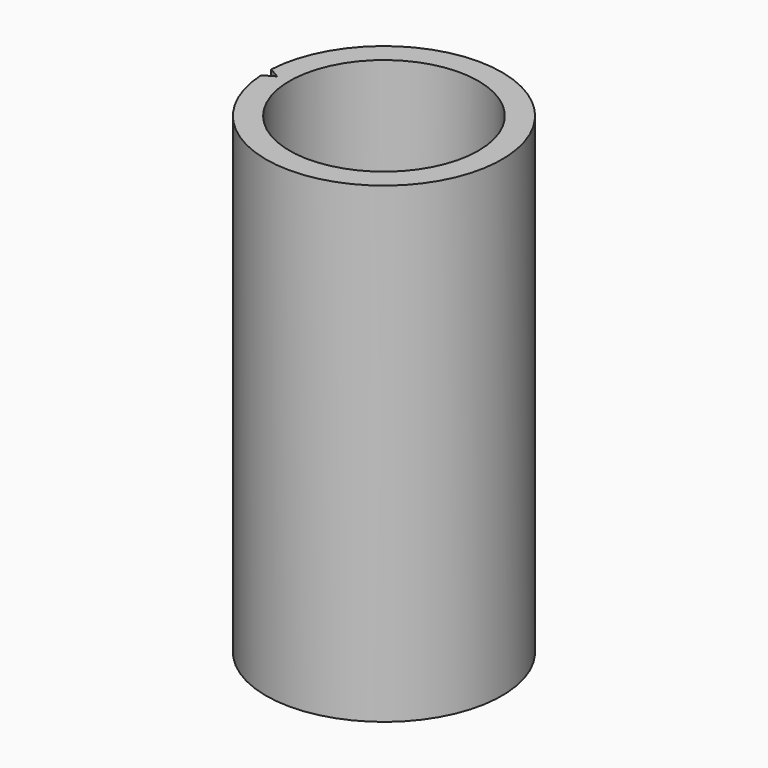
from build123d import *

# Parameters (mm, degrees)
F0_R     = 2.54
F1_DEPTH = 12.7


with BuildPart() as f1:
    # F0 (on Top) → F1 (new body)
    with BuildSketch(Plane.XY):
        with BuildLine():
            Line((-2.871997, 0), (-3.170335, -0.172043))
            ThreePointArc((-3.170335, -0.172043), (3.175, 0), (-3.170335, 0.172043))
            Line((-3.170335, 0.172043), (-2.871997, 0))
        make_face()
        Circle(F0_R, mode=Mode.SUBTRACT)
    extrude(amount=F1_DEPTH)


solid = f1.part
